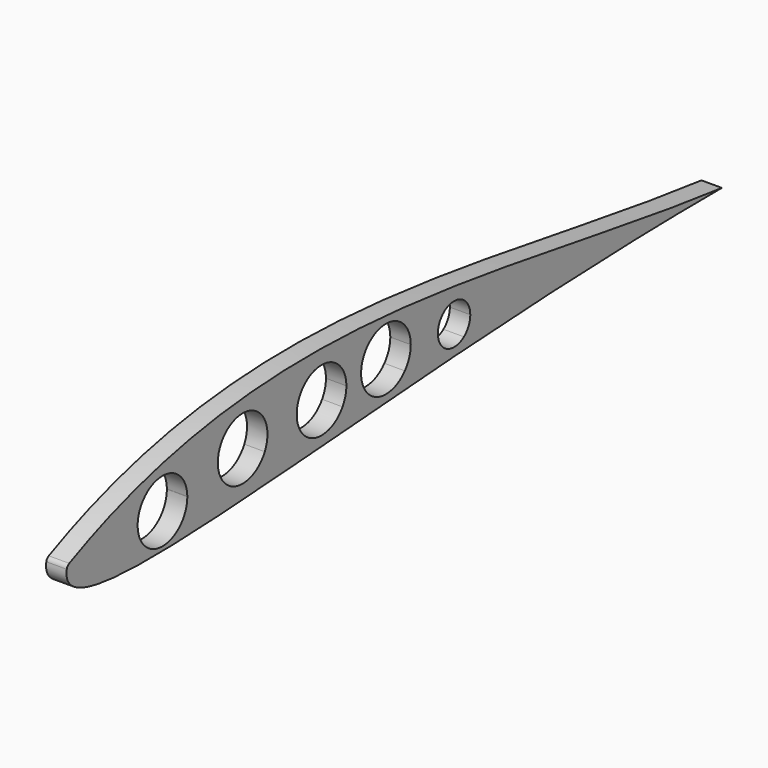
from build123d import *

# Parameters (mm, degrees)
F1_DEPTH = 19.05
F2_R     = 5.08


with BuildPart() as f1:
    # F0 (on Right) → F1 (new body)
    with BuildSketch(Plane.YZ):
        with BuildLine():
            Line((-160.8581324715, 0), (-242.7069797365, 0))
            add(Edge.make_bspline(
                [(-242.7069797365, 0), (-265.2118802071, -74.5986700058), (107.0116907358, 0), (519.2930202635, 0)],
                knots=[0, 0, 0, 0, 762, 762, 762, 762], degree=3))
            Line((519.2930202635, 0), (218.9046558231, 0))
            ThreePointArc((218.9046558231, 0), (207.4913084507, -3.8397523781), (196.0779610783, 0))
            Line((196.0779610783, 0), (150.206251788, 0))
            ThreePointArc((150.206251788, 0), (128.160789609, -10.2089434816), (106.1153274299, 0))
            Line((106.1153274299, 0), (77.678939592, 0))
            ThreePointArc((77.678939592, 0), (53.2129891217, -13.5109411506), (28.7470386513, 0))
            Line((28.7470386513, 0), (-12.8924874617, 0))
            ThreePointArc((-12.8924874617, 0), (-38.6368222535, -15.7596921502), (-64.3811570453, 0))
            Line((-64.3811570453, 0), (-103.0457951603, 0))
            ThreePointArc((-103.0457951603, 0), (-103.0449853734, -0.1249209702), (-103.0447154427, -0.2498442734))
            ThreePointArc((-103.0447154427, -0.2498442734), (-132.0768871191, -29.1568227159), (-160.8581324715, 0))
        make_face()
        with BuildLine():
            add(Edge.make_bspline(
                [(519.2930202635, 0), (269.2858278751, 28.3039230853), (0, 114.9312928319), (-242.7069797365, 0)],
                knots=[0, 0, 0, 0, 762, 762, 762, 762], degree=3))
            Line((-242.7069797365, 0), (-160.8581324715, 0))
            ThreePointArc((-160.8581324715, 0), (-131.9519638159, 28.6574040998), (-103.0457951603, 0))
            Line((-103.0457951603, 0), (-64.3811570453, 0))
            ThreePointArc((-64.3811570453, 0), (-45.3981508389, 41.2529550685), (-9.7295738803, 13.147556223))
            ThreePointArc((-9.7295738803, 13.147556223), (-10.5314234079, 6.3862276376), (-12.8924874617, 0))
            Line((-12.8924874617, 0), (28.7470386513, 0))
            ThreePointArc((28.7470386513, 0), (45.2009450137, 43.1710467842), (82.1202374948, 15.3963072225))
            ThreePointArc((82.1202374948, 15.3963072225), (80.9877286834, 7.3842631146), (77.678939592, 0))
            Line((77.678939592, 0), (106.1153274299, 0))
            ThreePointArc((106.1153274299, 0), (118.2019905399, 45.8359416643), (157.0680379821, 18.6983048916))
            ThreePointArc((157.0680379821, 18.6983048916), (155.2984263817, 8.7395058225), (150.206251788, 0))
            Line((150.206251788, 0), (196.0779610783, 0))
            ThreePointArc((196.0779610783, 0), (199.0938059623, 31.9551771791), (226.3738016805, 15.0427408516))
            ThreePointArc((226.3738016805, 15.0427408516), (224.4037447781, 6.6452383633), (218.9046558231, 0))
            Line((218.9046558231, 0), (519.2930202635, 0))
        make_face()
    extrude(amount=F1_DEPTH)

    # F2
    f2_edges = [f1.edges().sort_by_distance(p)[0] for p in [
        (9.525, -242.70698, 0),
    ]]
    fillet(f2_edges, radius=F2_R)


solid = f1.part
